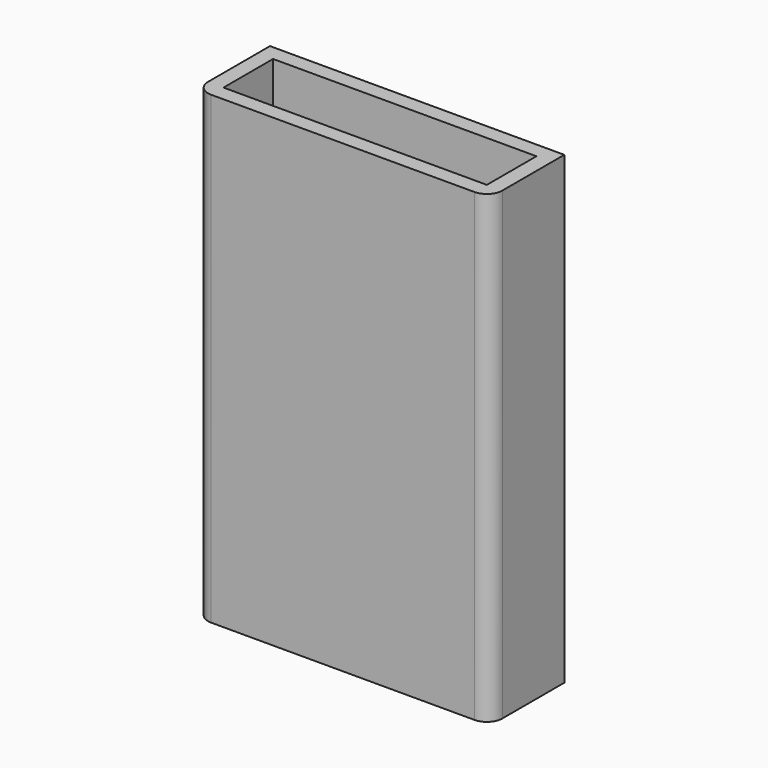
from build123d import *

# Parameters (mm, degrees)
F0_W     = 24.13
F0_H     = 7.62
F0_W_2   = 21.59
F0_H_2   = 5.08
F1_DEPTH = 38.1
F2_W     = 22.86
F2_H     = 2.741368
F3_DEPTH = 1.27
F4_R     = 1.27


with BuildPart() as f1:
    # F0 (on Top) → F1 (new body)
    with BuildSketch(Plane.XY):
        Rectangle(F0_W, F0_H)
        Rectangle(F0_W_2, F0_H_2, mode=Mode.SUBTRACT)
        Rectangle(F0_W, F0_H)
        Rectangle(F0_W_2, F0_H_2, mode=Mode.SUBTRACT)
    extrude(amount=F1_DEPTH)

    # F2 (on Top) → F3 (join)
    with BuildSketch(Plane.XY):
        with Locations((0.031765, -1.370684)):
            Rectangle(F2_W, F2_H)
    extrude(amount=F3_DEPTH)

    # F4
    f4_edges = [f1.edges().sort_by_distance(p)[0] for p in [
        (-12.065, -3.81, 19.05),
        (12.065, -3.81, 19.05),
    ]]
    fillet(f4_edges, radius=F4_R)


solid = f1.part
